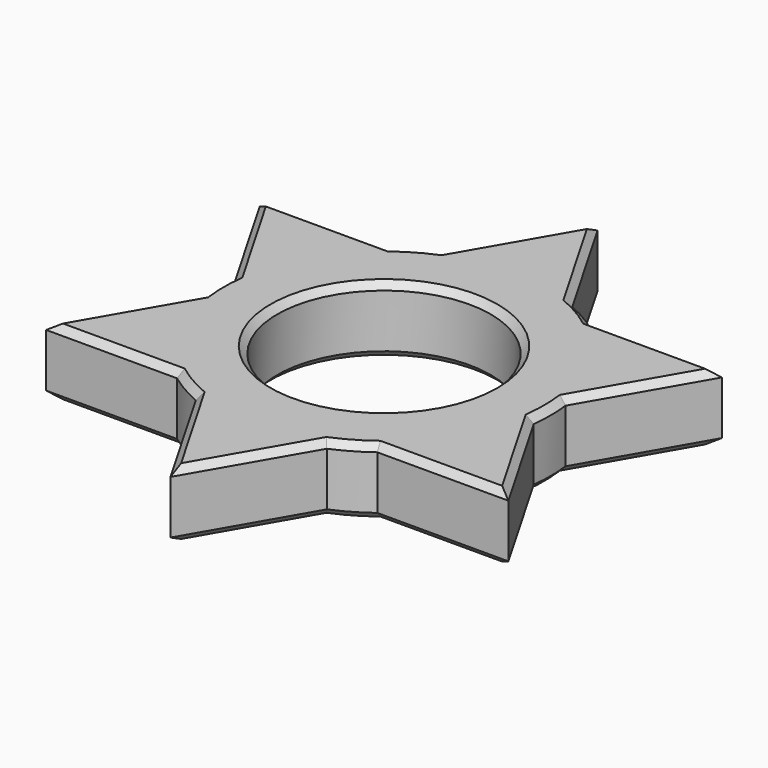
from build123d import *

# Parameters (mm, degrees)
F0_R     = 12.5
F0_R_2   = 8
F1_DEPTH = 2.5
F3_DEPTH = 5
F4_SIZE  = 0.5


with BuildPart() as f1:
    # F0 (on Top) → F1 (new body, symmetric)
    with BuildSketch(Plane.XY):
        Circle(F0_R)
        Circle(F0_R_2, mode=Mode.SUBTRACT)
    extrude(amount=F1_DEPTH, both=True)

    # F2 (on face) → F3 (join)
    with BuildSketch(Plane.XY.offset(2.5)):
        with BuildLine():
            ThreePointArc((-4.9102540378, 11.4951905284), (-2.5060046284, 12.2462214908), (0, 12.5))
            Line((0, 12.5), (0, 20))
            Line((0, 20), (-4.9102540378, 11.4951905284))
        make_face()
        with BuildLine():
            Line((0, 20), (0, 12.5))
            ThreePointArc((0, 12.5), (2.5060046284, 12.2462214908), (4.9102540378, 11.4951905284))
            Line((4.9102540378, 11.4951905284), (0, 20))
        make_face()
        with BuildLine():
            Line((17.3205080757, 10), (7.5, 10))
            ThreePointArc((7.5, 10), (10.8253175473, 6.25), (12.4102540378, 1.4951905284))
            Line((12.4102540378, 1.4951905284), (17.3205080757, 10))
        make_face()
        with BuildLine():
            ThreePointArc((-12.4102540378, 1.4951905284), (-10.8253175473, 6.25), (-7.5, 10))
            Line((-7.5, 10), (-17.3205080757, 10))
            Line((-17.3205080757, 10), (-12.4102540378, 1.4951905284))
        make_face()
        with BuildLine():
            ThreePointArc((-7.5, -10), (-10.8253175473, -6.25), (-12.4102540378, -1.4951905284))
            Line((-12.4102540378, -1.4951905284), (-17.3205080757, -10))
            Line((-17.3205080757, -10), (-7.5, -10))
        make_face()
        with BuildLine():
            Line((17.3205080757, -10), (12.4102540378, -1.4951905284))
            ThreePointArc((12.4102540378, -1.4951905284), (10.8253175473, -6.25), (7.5, -10))
            Line((7.5, -10), (17.3205080757, -10))
        make_face()
        with BuildLine():
            ThreePointArc((4.9102540378, -11.4951905284), (0, -12.5), (-4.9102540378, -11.4951905284))
            Line((-4.9102540378, -11.4951905284), (0, -20))
            Line((0, -20), (4.9102540378, -11.4951905284))
        make_face()
    extrude(amount=-F3_DEPTH)

    # F4
    f4_edges = [f1.edges().sort_by_distance(p)[0] for p in [
        (12.5, 0, 2.5),
        (14.865381, 5.747595, 2.5),
        (12.410254, 10, 2.5),
        (6.25, 10.825318, 2.5),
        (2.455127, 15.747595, 2.5),
        (-2.455127, 15.747595, 2.5),
        (-6.25, 10.825318, 2.5),
        (-12.410254, 10, 2.5),
        (-14.865381, 5.747595, 2.5),
        (-12.5, 0, 2.5),
        (-14.865381, -5.747595, 2.5),
        (-12.410254, -10, 2.5),
        (-6.25, -10.825318, 2.5),
        (-2.455127, -15.747595, 2.5),
        (2.455127, -15.747595, 2.5),
        (6.25, -10.825318, 2.5),
        (12.410254, -10, 2.5),
        (14.865381, -5.747595, 2.5),
        (-8, 0, 2.5),
        (14.865381, 5.747595, -2.5),
        (12.410254, 10, -2.5),
        (6.25, 10.825318, -2.5),
        (2.455127, 15.747595, -2.5),
        (-2.455127, 15.747595, -2.5),
        (-6.25, 10.825318, -2.5),
        (-12.410254, 10, -2.5),
        (-14.865381, 5.747595, -2.5),
        (-12.5, 0, -2.5),
        (-14.865381, -5.747595, -2.5),
        (-12.410254, -10, -2.5),
        (-6.25, -10.825318, -2.5),
        (-2.455127, -15.747595, -2.5),
        (2.455127, -15.747595, -2.5),
        (6.25, -10.825318, -2.5),
        (12.410254, -10, -2.5),
        (14.865381, -5.747595, -2.5),
        (12.5, 0, -2.5),
        (-8, 0, -2.5),
    ]]
    chamfer(f4_edges, length=F4_SIZE)


solid = f1.part
